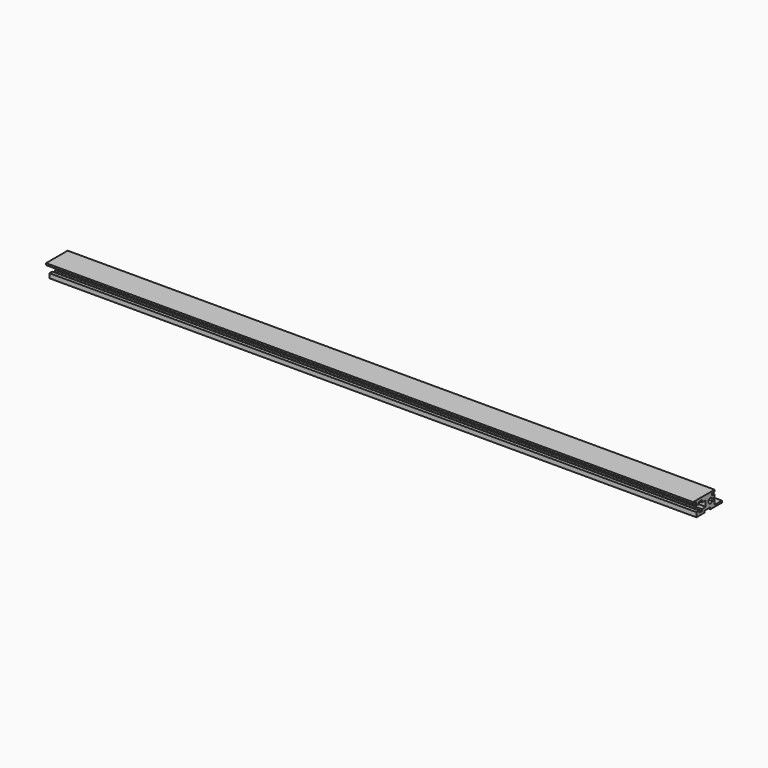
from build123d import *

# Parameters (mm, degrees)
PAD_DEPTH = 427


with BuildPart() as part:
    # Sketch → Pad (new body)
    with BuildSketch(Plane.YZ):
        with BuildLine():
            Line((2.8, 0), (9.3, 0))
            Line((9.3, 0), (9.3, 1.2))
            Line((9.3, 1.2), (14.3, 1.2))
            Line((14.3, 1.2), (14.3, 0))
            Line((14.3, 0), (23.8, 0))
            Line((23.8, 0), (23.8, 1.2))
            Line((23.8, 1.2), (17.8, 1.2))
            Line((17.8, 1.2), (17.8, 4.241981))
            Line((17.8, 4.241981), (15.765574, 4.241981))
            ThreePointArc((15.765574, 5.758019), (12.65, 5), (15.765574, 4.241981))
            Line((17.8, 5.758019), (15.765574, 5.758019))
            Line((17.8, 7.4), (17.8, 5.758019))
            Line((17.8, 7.4), (15.8, 7.4))
            Line((15.8, 8.8), (15.8, 7.4))
            Line((17.8, 8.8), (15.8, 8.8))
            Line((17.8, 10), (17.8, 8.8))
            Line((0, 10), (17.8, 10))
            Line((0, 8.8), (0, 10))
            Line((2.8, 8.8), (0, 8.8))
            Line((2.8, 7), (2.8, 8.8))
            Line((5.075313, 7), (2.8, 7))
            Line((5.075313, 8.25), (5.075313, 7))
            Line((7.288366, 8.25), (5.075313, 8.25))
            Line((7.288366, 6.841252), (7.288366, 8.25))
            Line((10.4, 6.841252), (7.288366, 6.841252))
            Line((10.4, 3), (10.4, 6.841252))
            Line((7.288366, 3), (10.4, 3))
            Line((7.288366, 1.75), (7.288366, 3))
            Line((5.075313, 1.75), (7.288366, 1.75))
            Line((5.075313, 3), (5.075313, 1.75))
            Line((2.8, 3), (5.075313, 3))
            Line((2.8, 0), (2.8, 3))
        make_face()
    extrude(amount=PAD_DEPTH)


solid = part.part
